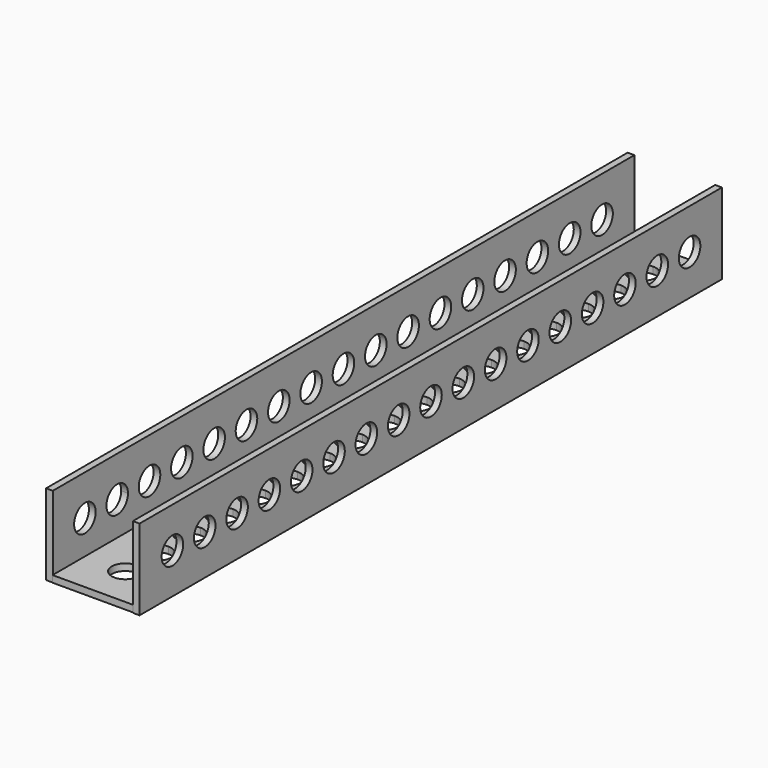
from build123d import *

# Parameters (mm, degrees)
F0_W     = 3.175
F0_H     = 342.750436
F1_DEPTH = 3.175
F2_DEPTH = 38.1
F4_DEPTH = 12.7
F5_DEPTH = 38.1
F7_DEPTH = 12.7


with BuildPart() as f1:
    # F0 (on Top) → F1 (new body)
    with BuildSketch(Plane.XY):
        with BuildLine():
            Line((-70.229731, 285.75), (-89.279731, 285.75))
            Line((-89.279731, 285.75), (-89.279731, -57.000436))
            Line((-89.279731, -57.000436), (-89.279731, -57.15))
            Line((-89.279731, -57.15), (-70.229731, -57.15))
            Line((-70.229731, -57.15), (-70.229731, -44.45))
            ThreePointArc((-70.229731, -44.45), (-76.579731, -38.1), (-70.229731, -31.75))
            Line((-70.229731, -31.75), (-70.229731, -25.4))
            ThreePointArc((-70.229731, -25.4), (-76.579731, -19.05), (-70.229731, -12.7))
            Line((-70.229731, -12.7), (-70.229731, -6.35))
            ThreePointArc((-70.229731, -6.35), (-76.579731, 0), (-70.229731, 6.35))
            Line((-70.229731, 6.35), (-70.229731, 12.7))
            ThreePointArc((-70.229731, 12.7), (-76.579731, 19.05), (-70.229731, 25.4))
            Line((-70.229731, 25.4), (-70.229731, 31.75))
            ThreePointArc((-70.229731, 31.75), (-76.579731, 38.1), (-70.229731, 44.45))
            Line((-70.229731, 44.45), (-70.229731, 50.8))
            ThreePointArc((-70.229731, 50.8), (-76.579731, 57.15), (-70.229731, 63.5))
            Line((-70.229731, 63.5), (-70.229731, 69.85))
            ThreePointArc((-70.229731, 69.85), (-76.579731, 76.2), (-70.229731, 82.55))
            Line((-70.229731, 82.55), (-70.229731, 88.9))
            ThreePointArc((-70.229731, 88.9), (-76.579731, 95.25), (-70.229731, 101.6))
            Line((-70.229731, 101.6), (-70.229731, 107.95))
            ThreePointArc((-70.229731, 107.95), (-76.579731, 114.3), (-70.229731, 120.65))
            Line((-70.229731, 120.65), (-70.229731, 127))
            ThreePointArc((-70.229731, 127), (-76.579731, 133.35), (-70.229731, 139.7))
            Line((-70.229731, 139.7), (-70.229731, 146.05))
            ThreePointArc((-70.229731, 146.05), (-76.579731, 152.4), (-70.229731, 158.75))
            Line((-70.229731, 158.75), (-70.229731, 165.1))
            ThreePointArc((-70.229731, 165.1), (-76.579731, 171.45), (-70.229731, 177.8))
            Line((-70.229731, 177.8), (-70.229731, 184.15))
            ThreePointArc((-70.229731, 184.15), (-76.579731, 190.5), (-70.229731, 196.85))
            Line((-70.229731, 196.85), (-70.229731, 203.2))
            ThreePointArc((-70.229731, 203.2), (-76.579731, 209.55), (-70.229731, 215.9))
            Line((-70.229731, 215.9), (-70.229731, 222.25))
            ThreePointArc((-70.229731, 222.25), (-76.579731, 228.6), (-70.229731, 234.95))
            Line((-70.229731, 234.95), (-70.229731, 241.3))
            ThreePointArc((-70.229731, 241.3), (-76.579731, 247.65), (-70.229731, 254))
            Line((-70.229731, 254), (-70.229731, 260.35))
            ThreePointArc((-70.229731, 260.35), (-76.579731, 266.7), (-70.229731, 273.05))
            Line((-70.229731, 273.05), (-70.229731, 285.75))
        make_face()
        with Locations((-90.867231, 114.374782)):
            Rectangle(F0_W, F0_H)
        with BuildLine():
            Line((-51.179731, 285.75), (-70.229731, 285.75))
            Line((-70.229731, 285.75), (-70.229731, 273.05))
            ThreePointArc((-70.229731, 273.05), (-65.739603, 271.190128), (-63.879731, 266.7))
            ThreePointArc((-63.879731, 266.7), (-65.739603, 262.209872), (-70.229731, 260.35))
            Line((-70.229731, 260.35), (-70.229731, 254))
            ThreePointArc((-70.229731, 254), (-65.739603, 252.140128), (-63.879731, 247.65))
            ThreePointArc((-63.879731, 247.65), (-65.739603, 243.159872), (-70.229731, 241.3))
            Line((-70.229731, 241.3), (-70.229731, 234.95))
            ThreePointArc((-70.229731, 234.95), (-65.739603, 233.090128), (-63.879731, 228.6))
            ThreePointArc((-63.879731, 228.6), (-65.739603, 224.109872), (-70.229731, 222.25))
            Line((-70.229731, 222.25), (-70.229731, 215.9))
            ThreePointArc((-70.229731, 215.9), (-65.739603, 214.040128), (-63.879731, 209.55))
            ThreePointArc((-63.879731, 209.55), (-65.739603, 205.059872), (-70.229731, 203.2))
            Line((-70.229731, 203.2), (-70.229731, 196.85))
            ThreePointArc((-70.229731, 196.85), (-65.739603, 194.990128), (-63.879731, 190.5))
            ThreePointArc((-63.879731, 190.5), (-65.739603, 186.009872), (-70.229731, 184.15))
            Line((-70.229731, 184.15), (-70.229731, 177.8))
            ThreePointArc((-70.229731, 177.8), (-65.739603, 175.940128), (-63.879731, 171.45))
            ThreePointArc((-63.879731, 171.45), (-65.739603, 166.959872), (-70.229731, 165.1))
            Line((-70.229731, 165.1), (-70.229731, 158.75))
            ThreePointArc((-70.229731, 158.75), (-65.739603, 156.890128), (-63.879731, 152.4))
            ThreePointArc((-63.879731, 152.4), (-65.739603, 147.909872), (-70.229731, 146.05))
            Line((-70.229731, 146.05), (-70.229731, 139.7))
            ThreePointArc((-70.229731, 139.7), (-65.739603, 137.840128), (-63.879731, 133.35))
            ThreePointArc((-63.879731, 133.35), (-65.739603, 128.859872), (-70.229731, 127))
            Line((-70.229731, 127), (-70.229731, 120.65))
            ThreePointArc((-70.229731, 120.65), (-65.739603, 118.790128), (-63.879731, 114.3))
            ThreePointArc((-63.879731, 114.3), (-65.739603, 109.809872), (-70.229731, 107.95))
            Line((-70.229731, 107.95), (-70.229731, 101.6))
            ThreePointArc((-70.229731, 101.6), (-65.739603, 99.740128), (-63.879731, 95.25))
            ThreePointArc((-63.879731, 95.25), (-65.739603, 90.759872), (-70.229731, 88.9))
            Line((-70.229731, 88.9), (-70.229731, 82.55))
            ThreePointArc((-70.229731, 82.55), (-65.739603, 80.690128), (-63.879731, 76.2))
            ThreePointArc((-63.879731, 76.2), (-65.739603, 71.709872), (-70.229731, 69.85))
            Line((-70.229731, 69.85), (-70.229731, 63.5))
            ThreePointArc((-70.229731, 63.5), (-65.739603, 61.640128), (-63.879731, 57.15))
            ThreePointArc((-63.879731, 57.15), (-65.739603, 52.659872), (-70.229731, 50.8))
            Line((-70.229731, 50.8), (-70.229731, 44.45))
            ThreePointArc((-70.229731, 44.45), (-65.739603, 42.590128), (-63.879731, 38.1))
            ThreePointArc((-63.879731, 38.1), (-65.739603, 33.609872), (-70.229731, 31.75))
            Line((-70.229731, 31.75), (-70.229731, 25.4))
            ThreePointArc((-70.229731, 25.4), (-65.739603, 23.540128), (-63.879731, 19.05))
            ThreePointArc((-63.879731, 19.05), (-65.739603, 14.559872), (-70.229731, 12.7))
            Line((-70.229731, 12.7), (-70.229731, 6.35))
            ThreePointArc((-70.229731, 6.35), (-65.739603, 4.490128), (-63.879731, 0))
            ThreePointArc((-63.879731, 0), (-65.739603, -4.490128), (-70.229731, -6.35))
            Line((-70.229731, -6.35), (-70.229731, -12.7))
            ThreePointArc((-70.229731, -12.7), (-65.739603, -14.559872), (-63.879731, -19.05))
            ThreePointArc((-63.879731, -19.05), (-65.739603, -23.540128), (-70.229731, -25.4))
            Line((-70.229731, -25.4), (-70.229731, -31.75))
            ThreePointArc((-70.229731, -31.75), (-65.739603, -33.609872), (-63.879731, -38.1))
            ThreePointArc((-63.879731, -38.1), (-65.739603, -42.590128), (-70.229731, -44.45))
            Line((-70.229731, -44.45), (-70.229731, -57.15))
            Line((-70.229731, -57.15), (-51.179731, -57.15))
            Line((-51.179731, -57.15), (-51.179731, 285.75))
        make_face()
        Polygon((-48.004731, 285.75), (-51.179731, 285.75), (-51.179731, -57.15), (-51.179731, -57.470996), (-48.004731, -57.470996), align=None)
    extrude(amount=F1_DEPTH)

    # F0 (on Top) → F2 (join)
    with BuildSketch(Plane.XY):
        with Locations((-90.867231, 114.374782)):
            Rectangle(F0_W, F0_H)
    extrude(amount=F2_DEPTH)

    # F3 (on face) → F4 (cut)
    with BuildSketch(Plane(origin=(-92.454731, 0, 0), x_dir=(0, -1, 0), z_dir=(-1, 0, 0))):
        with BuildLine():
            Line((-273.05, 19.05), (-260.35, 19.05))
            ThreePointArc((-260.35, 19.05), (-266.7, 25.4), (-273.05, 19.05))
        make_face()
        with BuildLine():
            ThreePointArc((-273.05, 19.05), (-266.7, 12.7), (-260.35, 19.05))
            Line((-260.35, 19.05), (-273.05, 19.05))
        make_face()
        with BuildLine():
            ThreePointArc((44.45, 19.05), (38.1, 25.4), (31.75, 19.05))
            Line((31.75, 19.05), (44.45, 19.05))
        make_face()
        with BuildLine():
            Line((44.45, 19.05), (31.75, 19.05))
            ThreePointArc((31.75, 19.05), (38.1, 12.7), (44.45, 19.05))
        make_face()
        with BuildLine():
            ThreePointArc((25.4, 19.065573), (19.042214, 25.415568), (12.700019, 19.05))
            Line((12.700019, 19.05), (25.399981, 19.05))
            ThreePointArc((25.399981, 19.05), (25.399995, 19.057786), (25.4, 19.065573))
        make_face()
        with BuildLine():
            Line((25.399981, 19.05), (12.700019, 19.05))
            ThreePointArc((12.700019, 19.05), (19.05, 12.715573), (25.399981, 19.05))
        make_face()
        with BuildLine():
            ThreePointArc((6.35, 19.05), (0, 25.4), (-6.35, 19.05))
            Line((-6.35, 19.05), (6.35, 19.05))
        make_face()
        with BuildLine():
            Line((6.35, 19.05), (-6.35, 19.05))
            ThreePointArc((-6.35, 19.05), (0, 12.7), (6.35, 19.05))
        make_face()
        with BuildLine():
            ThreePointArc((-12.7, 19.05), (-19.05, 25.4), (-25.4, 19.05))
            Line((-25.4, 19.05), (-12.7, 19.05))
        make_face()
        with BuildLine():
            Line((-12.7, 19.05), (-25.4, 19.05))
            ThreePointArc((-25.4, 19.05), (-19.05, 12.7), (-12.7, 19.05))
        make_face()
        with BuildLine():
            ThreePointArc((-31.75, 19.05), (-38.1, 25.4), (-44.45, 19.05))
            Line((-44.45, 19.05), (-31.75, 19.05))
        make_face()
        with BuildLine():
            Line((-31.75, 19.05), (-44.45, 19.05))
            ThreePointArc((-44.45, 19.05), (-38.1, 12.7), (-31.75, 19.05))
        make_face()
        with BuildLine():
            ThreePointArc((-50.8, 19.05), (-57.15, 25.4), (-63.5, 19.05))
            Line((-63.5, 19.05), (-50.8, 19.05))
        make_face()
        with BuildLine():
            Line((-50.8, 19.05), (-63.5, 19.05))
            ThreePointArc((-63.5, 19.05), (-57.15, 12.7), (-50.8, 19.05))
        make_face()
        with BuildLine():
            ThreePointArc((-69.85, 19.05), (-76.2, 25.4), (-82.55, 19.05))
            Line((-82.55, 19.05), (-69.85, 19.05))
        make_face()
        with BuildLine():
            Line((-69.85, 19.05), (-82.55, 19.05))
            ThreePointArc((-82.55, 19.05), (-76.2, 12.7), (-69.85, 19.05))
        make_face()
        with BuildLine():
            ThreePointArc((-88.9, 19.05), (-95.25, 25.4), (-101.6, 19.05))
            Line((-101.6, 19.05), (-88.9, 19.05))
        make_face()
        with BuildLine():
            Line((-88.9, 19.05), (-101.6, 19.05))
            ThreePointArc((-101.6, 19.05), (-95.25, 12.7), (-88.9, 19.05))
        make_face()
        with BuildLine():
            ThreePointArc((-107.95, 19.05), (-114.3, 25.4), (-120.65, 19.05))
            Line((-120.65, 19.05), (-107.95, 19.05))
        make_face()
        with BuildLine():
            Line((-107.95, 19.05), (-120.65, 19.05))
            ThreePointArc((-120.65, 19.05), (-114.3, 12.7), (-107.95, 19.05))
        make_face()
        with BuildLine():
            ThreePointArc((-127, 19.05), (-133.35, 25.4), (-139.7, 19.05))
            Line((-139.7, 19.05), (-127, 19.05))
        make_face()
        with BuildLine():
            Line((-127, 19.05), (-139.7, 19.05))
            ThreePointArc((-139.7, 19.05), (-133.35, 12.7), (-127, 19.05))
        make_face()
        with BuildLine():
            ThreePointArc((-146.05, 19.05), (-152.4, 25.4), (-158.75, 19.05))
            Line((-158.75, 19.05), (-146.05, 19.05))
        make_face()
        with BuildLine():
            Line((-146.05, 19.05), (-158.75, 19.05))
            ThreePointArc((-158.75, 19.05), (-152.4, 12.7), (-146.05, 19.05))
        make_face()
        with BuildLine():
            ThreePointArc((-165.1, 19.05), (-171.45, 25.4), (-177.8, 19.05))
            Line((-177.8, 19.05), (-165.1, 19.05))
        make_face()
        with BuildLine():
            Line((-165.1, 19.05), (-177.8, 19.05))
            ThreePointArc((-177.8, 19.05), (-171.45, 12.7), (-165.1, 19.05))
        make_face()
        with BuildLine():
            ThreePointArc((-184.15, 19.05), (-190.5, 25.4), (-196.85, 19.05))
            Line((-196.85, 19.05), (-184.15, 19.05))
        make_face()
        with BuildLine():
            Line((-184.15, 19.05), (-196.85, 19.05))
            ThreePointArc((-196.85, 19.05), (-190.5, 12.7), (-184.15, 19.05))
        make_face()
        with BuildLine():
            ThreePointArc((-203.2, 19.05), (-209.55, 25.4), (-215.9, 19.05))
            Line((-215.9, 19.05), (-203.2, 19.05))
        make_face()
        with BuildLine():
            Line((-203.2, 19.05), (-215.9, 19.05))
            ThreePointArc((-215.9, 19.05), (-209.55, 12.7), (-203.2, 19.05))
        make_face()
        with BuildLine():
            ThreePointArc((-222.25, 19.05), (-228.6, 25.4), (-234.95, 19.05))
            Line((-234.95, 19.05), (-222.25, 19.05))
        make_face()
        with BuildLine():
            Line((-222.25, 19.05), (-234.95, 19.05))
            ThreePointArc((-234.95, 19.05), (-228.6, 12.7), (-222.25, 19.05))
        make_face()
        with BuildLine():
            ThreePointArc((-241.3, 19.05), (-247.65, 25.4), (-254, 19.05))
            Line((-254, 19.05), (-241.3, 19.05))
        make_face()
        with BuildLine():
            Line((-241.3, 19.05), (-254, 19.05))
            ThreePointArc((-254, 19.05), (-247.65, 12.7), (-241.3, 19.05))
        make_face()
    extrude(amount=-F4_DEPTH, mode=Mode.SUBTRACT)

    # F0 (on Top) → F5 (join)
    with BuildSketch(Plane.XY):
        Polygon((-48.004731, 285.75), (-51.179731, 285.75), (-51.179731, -57.15), (-51.179731, -57.470996), (-48.004731, -57.470996), align=None)
    extrude(amount=F5_DEPTH)

    # F6 (on face) → F7 (cut)
    with BuildSketch(Plane.YZ.offset(-48.004731)):
        with BuildLine():
            Line((260.35, 19.05), (273.05, 19.05))
            ThreePointArc((273.05, 19.05), (266.7, 25.4), (260.35, 19.05))
        make_face()
        with BuildLine():
            ThreePointArc((-44.457242, 19.05), (-38.107242, 12.7), (-31.757242, 19.05))
            Line((-31.757242, 19.05), (-44.457242, 19.05))
        make_face()
        with BuildLine():
            Line((-44.457242, 19.05), (-31.757242, 19.05))
            ThreePointArc((-31.757242, 19.05), (-38.107242, 25.4), (-44.457242, 19.05))
        make_face()
        with BuildLine():
            ThreePointArc((-25.407242, 19.05), (-19.057242, 12.7), (-12.707242, 19.05))
            Line((-12.707242, 19.05), (-25.407242, 19.05))
        make_face()
        with BuildLine():
            Line((-25.407242, 19.05), (-12.707242, 19.05))
            ThreePointArc((-12.707242, 19.05), (-19.057242, 25.4), (-25.407242, 19.05))
        make_face()
        with BuildLine():
            ThreePointArc((-6.357242, 19.05), (-0.007242, 12.7), (6.342758, 19.05))
            Line((6.342758, 19.05), (-6.357242, 19.05))
        make_face()
        with BuildLine():
            Line((-6.357242, 19.05), (6.342758, 19.05))
            ThreePointArc((6.342758, 19.05), (-0.007242, 25.4), (-6.357242, 19.05))
        make_face()
        with BuildLine():
            ThreePointArc((12.692758, 19.05), (19.042758, 12.7), (25.392758, 19.05))
            Line((25.392758, 19.05), (12.692758, 19.05))
        make_face()
        with BuildLine():
            Line((12.692758, 19.05), (25.392758, 19.05))
            ThreePointArc((25.392758, 19.05), (19.042758, 25.4), (12.692758, 19.05))
        make_face()
        with BuildLine():
            ThreePointArc((31.742758, 19.05), (38.092758, 12.7), (44.442758, 19.05))
            Line((44.442758, 19.05), (31.742758, 19.05))
        make_face()
        with BuildLine():
            Line((31.742758, 19.05), (44.442758, 19.05))
            ThreePointArc((44.442758, 19.05), (38.092758, 25.4), (31.742758, 19.05))
        make_face()
        with BuildLine():
            ThreePointArc((50.792758, 19.05), (57.142758, 12.7), (63.492758, 19.05))
            Line((63.492758, 19.05), (50.792758, 19.05))
        make_face()
        with BuildLine():
            Line((50.792758, 19.05), (63.492758, 19.05))
            ThreePointArc((63.492758, 19.05), (57.142758, 25.4), (50.792758, 19.05))
        make_face()
        with BuildLine():
            ThreePointArc((69.842758, 19.05), (76.192758, 12.7), (82.542758, 19.05))
            Line((82.542758, 19.05), (69.842758, 19.05))
        make_face()
        with BuildLine():
            Line((69.842758, 19.05), (82.542758, 19.05))
            ThreePointArc((82.542758, 19.05), (76.192758, 25.4), (69.842758, 19.05))
        make_face()
        with BuildLine():
            ThreePointArc((88.892758, 19.05), (95.242758, 12.7), (101.592758, 19.05))
            Line((101.592758, 19.05), (88.892758, 19.05))
        make_face()
        with BuildLine():
            Line((88.892758, 19.05), (101.592758, 19.05))
            ThreePointArc((101.592758, 19.05), (95.242758, 25.4), (88.892758, 19.05))
        make_face()
        with BuildLine():
            ThreePointArc((107.942758, 19.05), (114.292758, 12.7), (120.642758, 19.05))
            Line((120.642758, 19.05), (107.942758, 19.05))
        make_face()
        with BuildLine():
            Line((107.942758, 19.05), (120.642758, 19.05))
            ThreePointArc((120.642758, 19.05), (114.292758, 25.4), (107.942758, 19.05))
        make_face()
        with BuildLine():
            ThreePointArc((126.992758, 19.05), (133.342758, 12.7), (139.692758, 19.05))
            Line((139.692758, 19.05), (126.992758, 19.05))
        make_face()
        with BuildLine():
            Line((126.992758, 19.05), (139.692758, 19.05))
            ThreePointArc((139.692758, 19.05), (133.342758, 25.4), (126.992758, 19.05))
        make_face()
        with BuildLine():
            ThreePointArc((146.042758, 19.05), (152.392758, 12.7), (158.742758, 19.05))
            Line((158.742758, 19.05), (146.042758, 19.05))
        make_face()
        with BuildLine():
            Line((146.042758, 19.05), (158.742758, 19.05))
            ThreePointArc((158.742758, 19.05), (152.392758, 25.4), (146.042758, 19.05))
        make_face()
        with BuildLine():
            ThreePointArc((165.092758, 19.05), (171.442758, 12.7), (177.792758, 19.05))
            Line((177.792758, 19.05), (165.092758, 19.05))
        make_face()
        with BuildLine():
            Line((165.092758, 19.05), (177.792758, 19.05))
            ThreePointArc((177.792758, 19.05), (171.442758, 25.4), (165.092758, 19.05))
        make_face()
        with BuildLine():
            ThreePointArc((184.142758, 19.05), (190.492758, 12.7), (196.842758, 19.05))
            Line((196.842758, 19.05), (184.142758, 19.05))
        make_face()
        with BuildLine():
            Line((184.142758, 19.05), (196.842758, 19.05))
            ThreePointArc((196.842758, 19.05), (190.492758, 25.4), (184.142758, 19.05))
        make_face()
        with BuildLine():
            ThreePointArc((203.192758, 19.05), (209.542758, 12.7), (215.892758, 19.05))
            Line((215.892758, 19.05), (203.192758, 19.05))
        make_face()
        with BuildLine():
            Line((203.192758, 19.05), (215.892758, 19.05))
            ThreePointArc((215.892758, 19.05), (209.542758, 25.4), (203.192758, 19.05))
        make_face()
        with BuildLine():
            ThreePointArc((222.242758, 19.05), (228.592758, 12.7), (234.942758, 19.05))
            Line((234.942758, 19.05), (222.242758, 19.05))
        make_face()
        with BuildLine():
            Line((222.242758, 19.05), (234.942758, 19.05))
            ThreePointArc((234.942758, 19.05), (228.592758, 25.4), (222.242758, 19.05))
        make_face()
        with BuildLine():
            ThreePointArc((241.3, 19.05), (247.65, 12.7), (254, 19.05))
            Line((254, 19.05), (241.3, 19.05))
        make_face()
        with BuildLine():
            Line((241.3, 19.05), (254, 19.05))
            ThreePointArc((254, 19.05), (247.65, 25.4), (241.3, 19.05))
        make_face()
        with BuildLine():
            ThreePointArc((260.35, 19.05), (266.7, 12.7), (273.05, 19.05))
            Line((273.05, 19.05), (260.35, 19.05))
        make_face()
    extrude(amount=-F7_DEPTH, mode=Mode.SUBTRACT)


solid = f1.part
